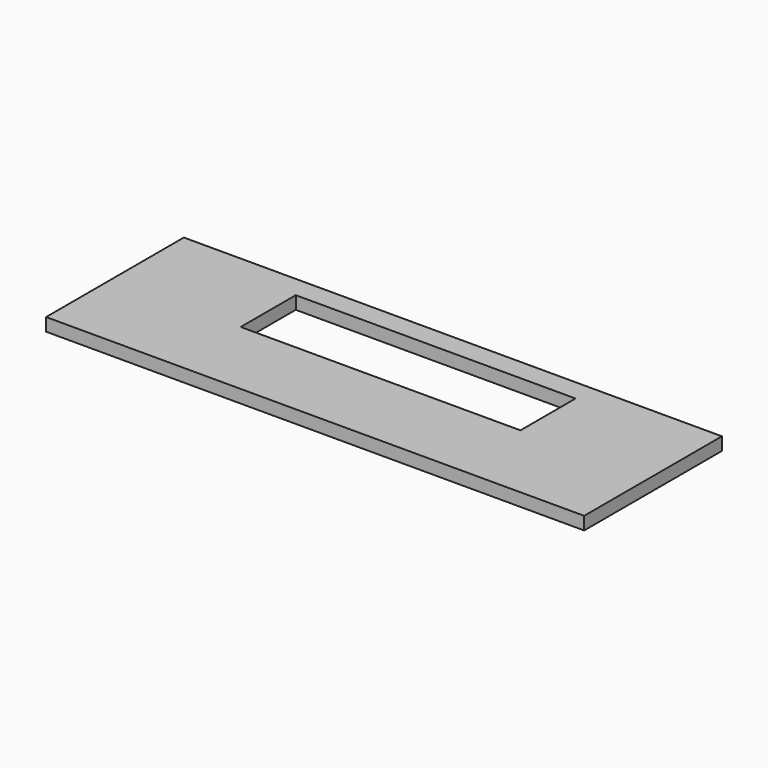
from build123d import *

# Parameters (mm, degrees)
F0_W     = 1250
F0_H     = 400
F0_W_2   = 650
F0_H_2   = 160
F1_DEPTH = 30


with BuildPart() as f1:
    # F0 (on Top) → F1 (new body)
    with BuildSketch(Plane.XY):
        with Locations((0, -70)):
            Rectangle(F0_W, F0_H)
        Rectangle(F0_W_2, F0_H_2, mode=Mode.SUBTRACT)
    extrude(amount=F1_DEPTH)


solid = f1.part
